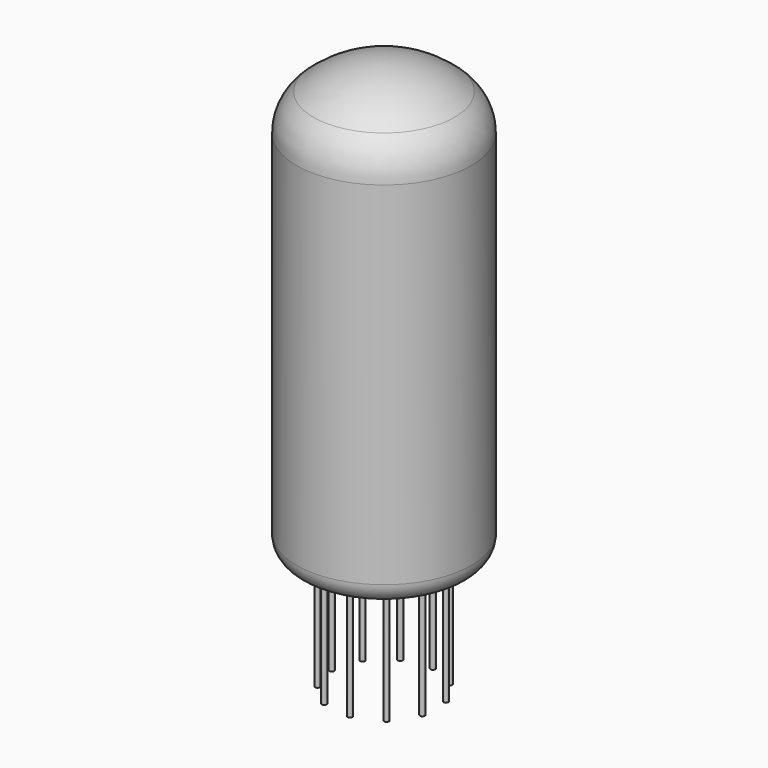
from build123d import *

# Parameters (mm, degrees)
F2_R     = 2.1
F3_R     = 0.25
F4_DEPTH = 12


with BuildPart() as f1:
    # F0 (on Right) → F1 (revolve)
    with BuildSketch(Plane.YZ):
        with BuildLine():
            Line((-8.95, 38.106404), (-8.95, 0))
            Line((-8.95, 0), (0, 0))
            Line((0, 0), (0, 44.565391))
            ThreePointArc((0, 44.565391), (-3.850647, 43.879973), (-7.218062, 41.890551))
            ThreePointArc((-7.218062, 41.890551), (-8.496444, 40.187232), (-8.95, 38.106404))
        make_face()
    revolve(axis=Axis((0, 0, 22.282695), (0, 0, 1)))

    # F2
    f2_edges = [f1.edges().sort_by_distance(p)[0] for p in [
        (0, 8.95, 0),
    ]]
    fillet(f2_edges, radius=F2_R)

    # F3 (on face) → F4 (join)
    with BuildSketch(Plane(origin=(0, 0, 0), x_dir=(1, 0, 0), z_dir=(0, 0, -1))):
        with Locations((-5.35, 0)):
            Circle(F3_R)
        with Locations((-4.500706, -2.892428)):
            Circle(F3_R)
        with Locations((-2.22247, -4.866531)):
            Circle(F3_R)
        with Locations((0.761384, -5.295545)):
            Circle(F3_R)
        with Locations((3.503505, -4.04326)):
            Circle(F3_R)
        with Locations((5.133287, -1.507269)):
            Circle(F3_R)
        with Locations((5.133287, 1.507269)):
            Circle(F3_R)
        with Locations((3.503505, 4.04326)):
            Circle(F3_R)
        with Locations((0.761384, 5.295545)):
            Circle(F3_R)
        with Locations((-2.22247, 4.866531)):
            Circle(F3_R)
        with Locations((-4.500706, 2.892428)):
            Circle(F3_R)
    extrude(amount=F4_DEPTH)


solid = f1.part
